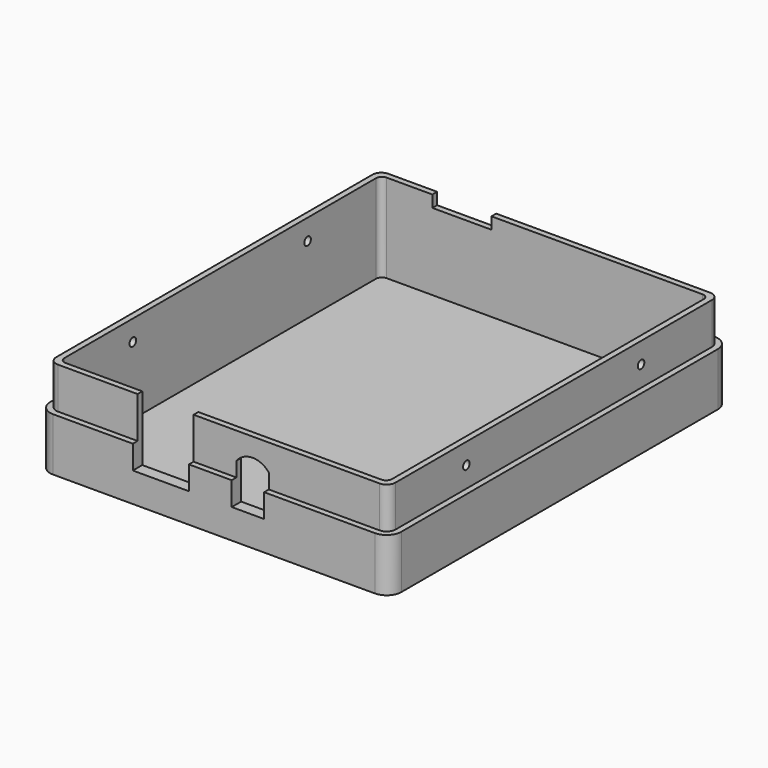
from build123d import *

# Parameters (mm, degrees)
F0_W      = 115
F0_H      = 140
F1_DEPTH  = 2
F2_W      = 115
F2_H      = 140
F2_W_2    = 111
F2_H_2    = 136
F3_DEPTH  = 30
F4_W      = 119
F4_H      = 144
F4_W_2    = 115
F4_H_2    = 140
F5_DEPTH  = 18
F6_W      = 19
F6_H      = 3.2217571437
F6_H_2    = 32
F7_DEPTH  = 5
F8_W      = 20
F8_H      = 11
F9_DEPTH  = 2
F10_R     = 5
F11_R     = 3
F12_R     = 2
F13_R     = 1.4
F14_DEPTH = 117.001


with BuildPart() as f1:
    # F0 (on Top) → F1 (new body)
    with BuildSketch(Plane.XY):
        Rectangle(F0_W, F0_H)
    extrude(amount=F1_DEPTH)

    # F2 (on face) → F3 (join)
    with BuildSketch(Plane.XY.offset(2)):
        Rectangle(F2_W, F2_H)
        Rectangle(F2_W_2, F2_H_2, mode=Mode.SUBTRACT)
    extrude(amount=F3_DEPTH)

    # F4 (on Top) → F5 (join)
    with BuildSketch(Plane.XY):
        Rectangle(F4_W, F4_H)
        Rectangle(F4_W_2, F4_H_2, mode=Mode.SUBTRACT)
    extrude(amount=F5_DEPTH)

    # F6 (on face) → F7 (cut, symmetric)
    with BuildSketch(Plane(origin=(0, -68, 0), x_dir=(-1, 0, 0), z_dir=(0, 1, 0))):
        with Locations((18, 43.6108785719)):
            Rectangle(F6_W, F6_H)
        with Locations((18, 26)):
            Rectangle(F6_W, F6_H_2)
        with BuildLine():
            Line((-17, 10), (-6, 10))
            Line((-6, 10), (-6, 23))
            ThreePointArc((-6, 23), (-11.5, 25.6698729811), (-17, 23))
            Line((-17, 23), (-17, 10))
        make_face()
    extrude(amount=F7_DEPTH, both=True, mode=Mode.SUBTRACT)

    # F8 (on face) → F9 (cut)
    with BuildSketch(Plane(origin=(0, 70, 0), x_dir=(-1, 0, 0), z_dir=(0, 1, 0))):
        with Locations((28, 33.5)):
            Rectangle(F8_W, F8_H)
    extrude(amount=-F9_DEPTH, mode=Mode.SUBTRACT)

    # F10
    f10_edges = [f1.edges().sort_by_distance(p)[0] for p in [
        (-59.5, -72, 9),
        (59.5, -72, 9),
        (-59.5, 72, 9),
        (59.5, 72, 9),
    ]]
    fillet(f10_edges, radius=F10_R)

    # F11
    f11_edges = [f1.edges().sort_by_distance(p)[0] for p in [
        (-57.5, -70, 25),
        (57.5, -70, 25),
        (57.5, 70, 25),
        (-57.5, 70, 25),
    ]]
    fillet(f11_edges, radius=F11_R)

    # F12
    f12_edges = [f1.edges().sort_by_distance(p)[0] for p in [
        (-55.5, -68, 17),
        (55.5, -68, 17),
        (55.5, 68, 17),
        (-55.5, 68, 17),
    ]]
    fillet(f12_edges, radius=F12_R)

    # F13 (on face) → F14 (cut, through all)
    with BuildSketch(Plane(origin=(-57.5, 0, 0), x_dir=(0, -1, 0), z_dir=(-1, 0, 0))):
        with Locations((-37, 25)):
            Circle(F13_R)
        with Locations((37, 25)):
            Circle(F13_R)
    extrude(amount=-F14_DEPTH, mode=Mode.SUBTRACT)


solid = f1.part
